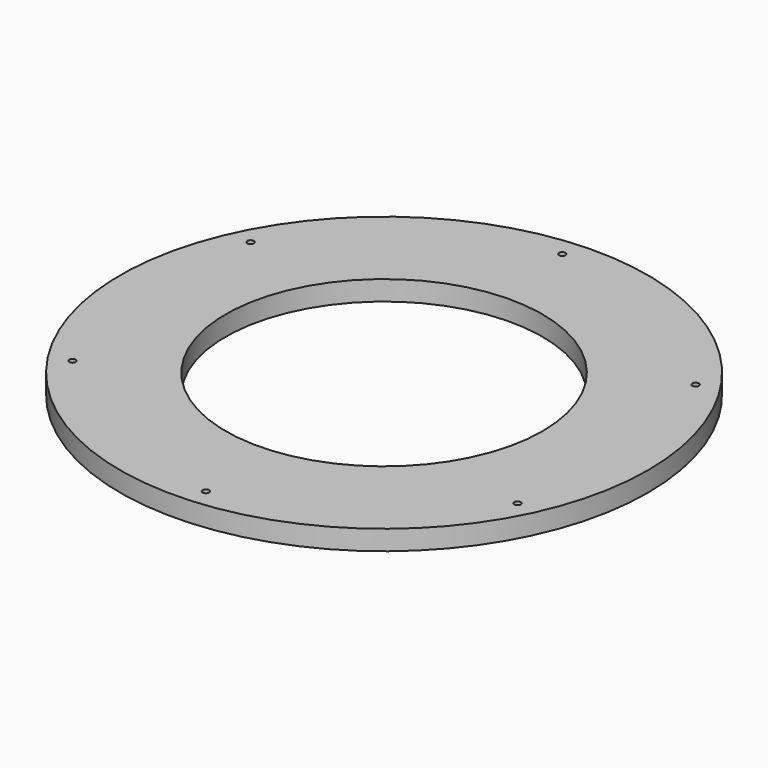
from build123d import *

# Parameters (mm, degrees)
F0_R     = 254
F0_R_2   = 152.4
F1_DEPTH = 19.05


with BuildPart() as f1:
    # F0 (on Top) → F1 (new body)
    with BuildSketch(Plane.XY):
        Circle(F0_R)
        with BuildLine():
            ThreePointArc((196.7011125508, 128.4919251209), (225.1848450649, 67.0319927579), (234.95, 0))
            ThreePointArc((234.95, 0), (229.2479499847, -51.4478369596), (212.4185683948, -100.3984775836))
            ThreePointArc((212.4185683948, -100.3984775836), (213.7303800146, -101.5698688542), (214.2174677682, -103.259766116))
            ThreePointArc((214.2174677682, -103.259766116), (212.7141648851, -105.9590352298), (209.6278276113, -106.1021978612))
            ThreePointArc((209.6278276113, -106.1021978612), (131.1382553066, -194.9468145294), (19.2616521087, -234.1591152572))
            ThreePointArc((19.2616521087, -234.1591152572), (19.2684021583, -234.2784835874), (19.2706532388, -234.3980214226))
            ThreePointArc((19.2706532388, -234.3980214226), (16.1937508526, -237.5715056053), (12.9267150604, -234.5941229821))
            ThreePointArc((12.9267150604, -234.5941229821), (-103.259766116, -211.0424677682), (-193.1569162861, -133.7606376736))
            ThreePointArc((-193.1569162861, -133.7606376736), (-197.5812309419, -132.9103938918), (-196.7011125508, -128.4919251209))
            ThreePointArc((-196.7011125508, -128.4919251209), (-234.3980214226, -16.0956532388), (-212.4185683948, 100.3984775836))
            ThreePointArc((-212.4185683948, 100.3984775836), (-213.8943930083, 104.6551683608), (-209.6278276113, 106.1021978612))
            ThreePointArc((-209.6278276113, 106.1021978612), (-131.1382553066, 194.9468145294), (-19.2616521087, 234.1591152572))
            ThreePointArc((-19.2616521087, 234.1591152572), (-16.3131620664, 237.5655622526), (-12.9267150604, 234.5941229821))
            ThreePointArc((-12.9267150604, 234.5941229821), (103.259766116, 211.0424677682), (193.1569162861, 133.7606376736))
            ThreePointArc((193.1569162861, 133.7606376736), (196.4296661871, 133.9457053883), (198.1218145294, 131.1382553066))
            ThreePointArc((198.1218145294, 131.1382553066), (197.744181257, 129.6364682408), (196.7011125508, 128.4919251209))
        make_face(mode=Mode.SUBTRACT)
        with BuildLine():
            ThreePointArc((212.4185683948, -100.3984775836), (229.2479499847, -51.4478369596), (234.95, 0))
            ThreePointArc((234.95, 0), (225.1848450649, 67.0319927579), (196.7011125508, 128.4919251209))
            ThreePointArc((196.7011125508, 128.4919251209), (192.3123981168, 129.3661167214), (193.1569162861, 133.7606376736))
            ThreePointArc((193.1569162861, 133.7606376736), (103.259766116, 211.0424677682), (-12.9267150604, 234.5941229821))
            ThreePointArc((-12.9267150604, 234.5941229821), (-12.9221690561, 234.4961190364), (-12.9206532388, 234.3980214226))
            ThreePointArc((-12.9206532388, 234.3980214226), (-15.9761154036, 231.2252725031), (-19.2616521087, 234.1591152572))
            ThreePointArc((-19.2616521087, 234.1591152572), (-131.1382553066, 194.9468145294), (-209.6278276113, 106.1021978612))
            ThreePointArc((-209.6278276113, 106.1021978612), (-208.3431986543, 104.931463233), (-207.8674677682, 103.259766116))
            ThreePointArc((-207.8674677682, 103.259766116), (-209.3525705064, 100.5718538695), (-212.4185683948, 100.3984775836))
            ThreePointArc((-212.4185683948, 100.3984775836), (-234.3980214226, -16.0956532388), (-196.7011125508, -128.4919251209))
            ThreePointArc((-196.7011125508, -128.4919251209), (-193.4450274636, -128.3408885789), (-191.7718145294, -131.1382553066))
            ThreePointArc((-191.7718145294, -131.1382553066), (-192.1393644477, -132.6211069643), (-193.1569162861, -133.7606376736))
            ThreePointArc((-193.1569162861, -133.7606376736), (-103.259766116, -211.0424677682), (12.9267150604, -234.5941229821))
            ThreePointArc((12.9267150604, -234.5941229821), (15.8781444113, -231.2304805925), (19.2616521087, -234.1591152572))
            ThreePointArc((19.2616521087, -234.1591152572), (131.1382553066, -194.9468145294), (209.6278276113, -106.1021978612))
            ThreePointArc((209.6278276113, -106.1021978612), (208.190542528, -101.8643638712), (212.4185683948, -100.3984775836))
        make_face()
        Circle(F0_R_2, mode=Mode.SUBTRACT)
    extrude(amount=F1_DEPTH)


solid = f1.part
